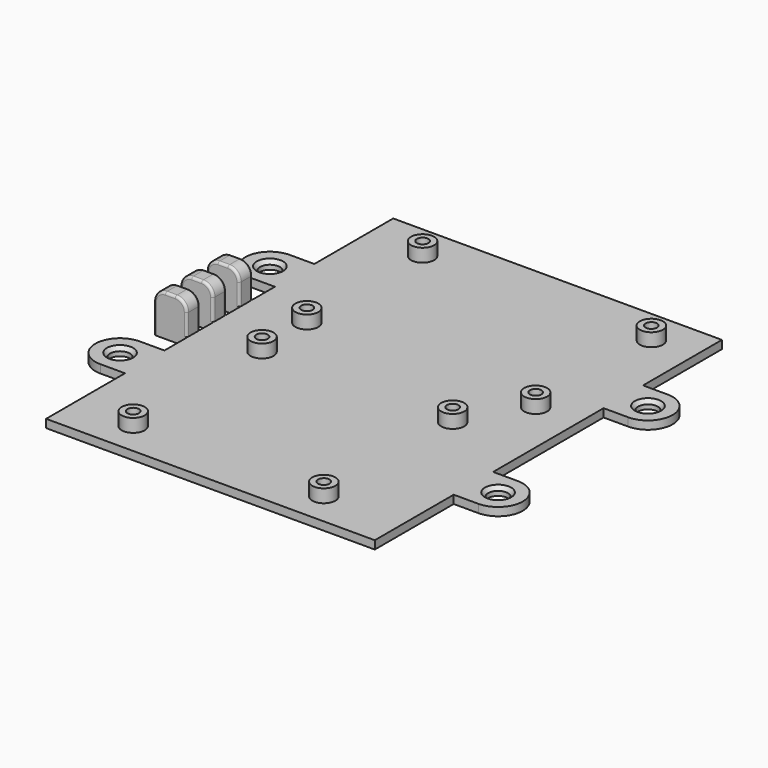
from build123d import *

# Parameters (mm, degrees)
SKETCH001_W     = 100
SKETCH001_H     = 132
PAD_DEPTH       = 2.5
SKETCH002_R     = 3.5
SKETCH002_R_2   = 1.75
PAD001_DEPTH    = 4
PAD002_DEPTH    = 2.5
SKETCH004_R     = 3
HOLE_DEPTH      = 25
CHAMFER_1_ANGLE = 49
CHAMFER_1_SIZE  = 1
CHAMFER_2_ANGLE = 49
CHAMFER_2_SIZE  = 1
CHAMFER_3_ANGLE = 49
CHAMFER_3_SIZE  = 1
CHAMFER_4_ANGLE = 49
CHAMFER_4_SIZE  = 1
SKETCH005_W     = 10
SKETCH005_H     = 5
PAD003_DEPTH    = 12.5
FILLET_R        = 3.5
FILLET001_R     = 0.75


with BuildPart() as part:
    # Sketch001 → Pad (new body)
    with BuildSketch(Plane.XY):
        with Locations((50, 66)):
            Rectangle(SKETCH001_W, SKETCH001_H)
    extrude(amount=PAD_DEPTH)

    # Sketch002 (on Face6 of Pad) → Pad001 (join)
    with BuildSketch(Plane.XY.offset(2.5)):
        with Locations((76.5, 10)):
            Circle(SKETCH002_R)
        with Locations((76.5, 10)):
            Circle(SKETCH002_R_2, mode=Mode.SUBTRACT)
        with Locations((18.5, 10)):
            Circle(SKETCH002_R)
        with Locations((18.5, 10)):
            Circle(SKETCH002_R_2, mode=Mode.SUBTRACT)
        with Locations((18.5, 59)):
            Circle(SKETCH002_R)
        with Locations((18.5, 59)):
            Circle(SKETCH002_R_2, mode=Mode.SUBTRACT)
        with Locations((76.5, 59)):
            Circle(SKETCH002_R)
        with Locations((76.5, 59)):
            Circle(SKETCH002_R_2, mode=Mode.SUBTRACT)
        with Locations((87.1, 77.3)):
            Circle(SKETCH002_R)
        with Locations((87.1, 77.3)):
            Circle(SKETCH002_R_2, mode=Mode.SUBTRACT)
        with Locations((17.5, 77.3)):
            Circle(SKETCH002_R)
        with Locations((17.5, 77.3)):
            Circle(SKETCH002_R_2, mode=Mode.SUBTRACT)
        with Locations((17.5, 121.3)):
            Circle(SKETCH002_R)
        with Locations((17.5, 121.3)):
            Circle(SKETCH002_R_2, mode=Mode.SUBTRACT)
        with Locations((87.1, 121.3)):
            Circle(SKETCH002_R)
        with Locations((87.1, 121.3)):
            Circle(SKETCH002_R_2, mode=Mode.SUBTRACT)
    extrude(amount=PAD001_DEPTH)

    # Sketch003 → Pad002 (join)
    with BuildSketch(Plane.XY):
        with BuildLine():
            Line((-7.5, 102), (0, 102))
            Line((0, 102), (0, 87))
            Line((0, 87), (-7.5, 87))
            ThreePointArc((-7.5, 102), (-15.00002, 94.5), (-7.5, 87))
        make_face()
        with BuildLine():
            Line((-7.5, 45), (0, 45))
            Line((0, 45), (0, 30))
            Line((0, 30), (-7.5, 30))
            ThreePointArc((-7.5, 45), (-15.00002, 37.5), (-7.5, 30))
        make_face()
        with BuildLine():
            Line((100, 102), (107.5, 102))
            ThreePointArc((107.5, 87), (114.99998, 94.5), (107.5, 102))
            Line((107.5, 87), (100, 87))
            Line((100, 87), (100, 102))
        make_face()
        with BuildLine():
            Line((100, 45), (107.5, 45))
            ThreePointArc((107.5, 30), (114.99998, 37.5), (107.5, 45))
            Line((107.5, 30), (100, 30))
            Line((100, 30), (100, 45))
        make_face()
    extrude(amount=PAD002_DEPTH)

    # Sketch004 (on Face18 of Pad002) → Hole (cut)
    with BuildSketch(Plane.XY.offset(2.5)):
        with Locations((-7.5, 94.5)):
            Circle(SKETCH004_R)
        with Locations((107.5, 94.5)):
            Circle(SKETCH004_R)
        with Locations((107.5, 37.5)):
            Circle(SKETCH004_R)
        with Locations((-7.5, 37.5)):
            Circle(SKETCH004_R)
    extrude(amount=-HOLE_DEPTH, mode=Mode.SUBTRACT)

    # Chamfer 1
    chamfer_1_edges = [part.edges().sort_by_distance(p)[0] for p in [
        (104.5, 94.5, 2.5),
    ]]
    chamfer_1_side = part.faces().sort_by_distance((103.75, 87.212132, 2.5))[0]
    chamfer(chamfer_1_edges, length=CHAMFER_1_SIZE, angle=CHAMFER_1_ANGLE, reference=chamfer_1_side)

    # Chamfer 2
    chamfer_2_edges = [part.edges().sort_by_distance(p)[0] for p in [
        (104.5, 37.5, 2.5),
    ]]
    chamfer_2_side = part.faces().sort_by_distance((103.75, 30.212132, 2.5))[0]
    chamfer(chamfer_2_edges, length=CHAMFER_2_SIZE, angle=CHAMFER_2_ANGLE, reference=chamfer_2_side)

    # Chamfer 3
    chamfer_3_edges = [part.edges().sort_by_distance(p)[0] for p in [
        (-10.5, 37.5, 2.5),
    ]]
    chamfer_3_side = part.faces().sort_by_distance((-3.75, 44.787868, 2.5))[0]
    chamfer(chamfer_3_edges, length=CHAMFER_3_SIZE, angle=CHAMFER_3_ANGLE, reference=chamfer_3_side)

    # Chamfer 4
    chamfer_4_edges = [part.edges().sort_by_distance(p)[0] for p in [
        (-10.5, 94.5, 2.5),
    ]]
    chamfer_4_side = part.faces().sort_by_distance((-3.75, 101.787868, 2.5))[0]
    chamfer(chamfer_4_edges, length=CHAMFER_4_SIZE, angle=CHAMFER_4_ANGLE, reference=chamfer_4_side)

    # Sketch005 → Pad003 (join)
    with BuildSketch(Plane.XY):
        with Locations((-5, 66)):
            Rectangle(SKETCH005_W, SKETCH005_H)
        with Locations((-5, 76)):
            Rectangle(SKETCH005_W, SKETCH005_H)
        with Locations((-5, 56)):
            Rectangle(SKETCH005_W, SKETCH005_H)
    extrude(amount=PAD003_DEPTH)

    # Fillet
    fillet_edges = [part.edges().sort_by_distance(p)[0] for p in [
        (0, 56, 12.5),
        (-10, 56, 12.5),
        (-10, 66, 12.5),
        (0, 66, 12.5),
        (-10, 76, 12.5),
        (0, 76, 12.5),
    ]]
    fillet(fillet_edges, radius=FILLET_R)

    # Fillet001
    fillet001_edges = [part.edges().sort_by_distance(p)[0] for p in [
        (-5, 53.5, 12.5),
        (-5, 58.5, 12.5),
        (-5, 63.5, 12.5),
        (-5, 68.5, 12.5),
        (-5, 73.5, 12.5),
        (-5, 78.5, 12.5),
    ]]
    fillet(fillet001_edges, radius=FILLET001_R)


solid = part.part
